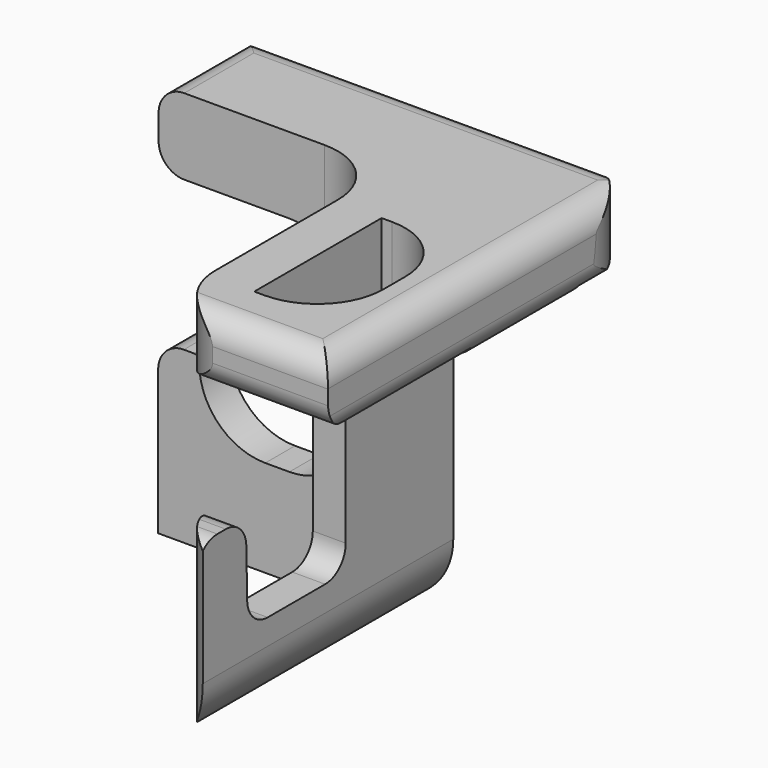
from build123d import *

# Parameters (mm, degrees)
F0_W      = 38.1
F0_H      = 38.1
F1_DEPTH  = 38.1
F7_DEPTH  = 38.1
F8_DEPTH  = 38.1
F10_DEPTH = 38.1


with BuildPart() as f1:
    # F0 (on Front) → F1 (new body)
    with BuildSketch(Plane.XZ):
        with Locations((19.05, 19.05)):
            Rectangle(F0_W, F0_H)
    extrude(amount=F1_DEPTH)

    # F6 (on offset) → F7 (cut)
    with BuildSketch(Plane.YZ.offset(38.1)):
        with BuildLine():
            Line((-20.187413, 31.75), (-29.192599, 31.75))
            Line((-29.192599, 31.75), (-35.52093, 31.75))
            ThreePointArc((-35.52093, 31.75), (-37.267369, 32.473399), (-37.990768, 34.219837))
            Line((-37.990768, 34.219837), (-37.990768, 35.630163))
            ThreePointArc((-37.990768, 35.630163), (-37.267369, 37.376601), (-35.52093, 38.1))
            Line((-35.52093, 38.1), (-38.1, 38.1))
            Line((-38.1, 38.1), (-38.1, 15.848642))
            ThreePointArc((-38.1, 15.848642), (-37.376601, 17.595081), (-35.630163, 18.31848))
            Line((-35.630163, 18.31848), (-34.611057, 18.31848))
            ThreePointArc((-34.611057, 18.31848), (-32.883701, 17.613958), (-32.141803, 15.902322))
            Line((-32.141803, 15.902322), (-32.039838, 11.211913))
            ThreePointArc((-32.039838, 11.211913), (-31.29794, 9.500277), (-29.570584, 8.795755))
            Line((-29.570584, 8.795755), (-22.657251, 8.795755))
            ThreePointArc((-22.657251, 8.795755), (-20.910812, 9.519154), (-20.187413, 11.265592))
            Line((-20.187413, 11.265592), (-20.187413, 31.75))
        make_face()
        with BuildLine():
            Line((0, 0), (0, 34.219837))
            ThreePointArc((0, 34.219837), (-0.723399, 32.473399), (-2.469837, 31.75))
            Line((-2.469837, 31.75), (-7.248927, 31.75))
            Line((-7.248927, 31.75), (-7.248927, 2.469837))
            ThreePointArc((-7.248927, 2.469837), (-7.972326, 0.723399), (-9.718765, 0))
            Line((-9.718765, 0), (0, 0))
        make_face()
        with BuildLine():
            Line((0, 38.1), (-2.469837, 38.1))
            ThreePointArc((-2.469837, 38.1), (-0.723399, 37.376601), (0, 35.630163))
            Line((0, 35.630163), (0, 38.1))
        make_face()
        with BuildLine():
            ThreePointArc((-35.630163, 0), (-37.376601, 0.723399), (-38.1, 2.469837))
            Line((-38.1, 2.469837), (-38.1, 0))
            Line((-38.1, 0), (-35.630163, 0))
        make_face()
    extrude(amount=-F7_DEPTH, mode=Mode.SUBTRACT)

    # F5 (on offset) → F8 (cut)
    with BuildSketch(Plane.XZ.offset(38.1)):
        with BuildLine():
            Line((0, 38.1), (0, 13.888076))
            ThreePointArc((0, 13.888076), (0.723399, 15.634515), (2.469837, 16.357914))
            Line((2.469837, 16.357914), (3.4497, 16.357914))
            ThreePointArc((3.4497, 16.357914), (3.813439, 16.20421), (3.95674, 15.83625))
            ThreePointArc((3.95674, 15.83625), (5.750677, 11.229898), (10.304174, 9.30575))
            Line((10.304174, 9.30575), (11.1735, 9.30575))
            Line((11.1735, 9.30575), (12.626726, 9.30575))
            ThreePointArc((12.626726, 9.30575), (17.116854, 11.165622), (18.976726, 15.65575))
            Line((18.976726, 15.65575), (18.976726, 24.423077))
            ThreePointArc((18.976726, 24.423077), (17.116854, 28.913205), (12.626726, 30.773077))
            Line((12.626726, 30.773077), (12.052785, 30.773077))
            Line((12.052785, 30.773077), (2.512986, 30.773077))
            ThreePointArc((2.512986, 30.773077), (0.766547, 31.496476), (0.043148, 33.242915))
            Line((0.043148, 33.242915), (0.043148, 35.630163))
            ThreePointArc((0.043148, 35.630163), (0.766547, 37.376601), (2.512986, 38.1))
            Line((2.512986, 38.1), (0, 38.1))
        make_face()
        with BuildLine():
            ThreePointArc((25.53427, 6.35), (23.674398, 1.859872), (19.18427, 0))
            Line((19.18427, 0), (38.1, 0))
            Line((38.1, 0), (38.1, 38.1))
            Line((38.1, 38.1), (35.599574, 38.1))
            ThreePointArc((35.599574, 38.1), (37.337263, 37.385307), (38.069288, 35.654848))
            Line((38.069288, 35.654848), (38.093149, 33.2676))
            ThreePointArc((38.093149, 33.2676), (37.37858, 31.505225), (35.623435, 30.773077))
            Line((35.623435, 30.773077), (31.88427, 30.773077))
            ThreePointArc((31.88427, 30.773077), (27.394142, 28.913205), (25.53427, 24.423077))
            Line((25.53427, 24.423077), (25.53427, 6.35))
        make_face()
    extrude(amount=-F8_DEPTH, mode=Mode.SUBTRACT)

    # F9 (on offset) → F10 (cut)
    with BuildSketch(Plane.XY.offset(38.1)):
        with BuildLine():
            Line((27.78691, -17.437199), (26.787849, -17.437199))
            Line((26.787849, -17.437199), (26.787849, -32.756366))
            Line((26.787849, -32.756366), (27.78691, -32.756366))
            ThreePointArc((27.78691, -32.756366), (32.277038, -30.896494), (34.13691, -26.406366))
            Line((34.13691, -26.406366), (34.13691, -23.787199))
            ThreePointArc((34.13691, -23.787199), (32.277038, -19.297071), (27.78691, -17.437199))
        make_face()
        with BuildLine():
            Line((38.1, 0), (31.75, 0))
            ThreePointArc((31.75, 0), (36.240128, -1.859872), (38.1, -6.35))
            Line((38.1, -6.35), (38.1, 0))
        make_face()
        with BuildLine():
            Line((16.014762, -10.832123), (0, -10.832123))
            Line((0, -10.832123), (0, -38.23876))
            Line((0, -38.23876), (0.831124, -38.23876))
            Line((0.831124, -38.23876), (28.714762, -38.23876))
            ThreePointArc((28.714762, -38.23876), (24.224634, -36.378888), (22.364762, -31.88876))
            Line((22.364762, -31.88876), (22.364762, -31.69275))
            Line((22.364762, -31.69275), (22.364762, -17.182123))
            ThreePointArc((22.364762, -17.182123), (20.50489, -12.691995), (16.014762, -10.832123))
        make_face()
    extrude(amount=-F10_DEPTH, mode=Mode.SUBTRACT)


solid = f1.part
